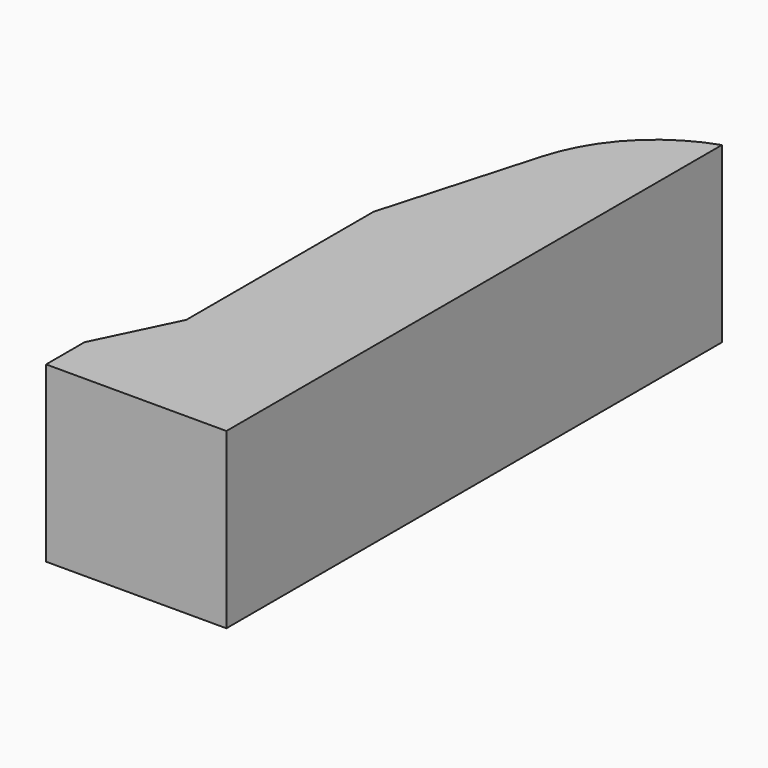
from build123d import *

# Parameters (mm, degrees)
F1_DEPTH = 50.8


with BuildPart() as f1:
    # F0 (on Top) → F1 (new body)
    with BuildSketch(Plane.XY):
        with BuildLine():
            Line((-52.733865, 0), (0, 0))
            Line((0, 0), (0, 181.136057))
            ThreePointArc((0, 181.136057), (-17.94511, 169.62391), (-28.517708, 151.109681))
            Line((-28.517708, 151.109681), (-41.49279, 105.66102))
            Line((-41.49279, 105.66102), (-41.49279, 37.194733))
            Line((-41.49279, 37.194733), (-52.733865, 14.051343))
            Line((-52.733865, 14.051343), (-52.733865, 0))
        make_face()
    extrude(amount=F1_DEPTH)


solid = f1.part
